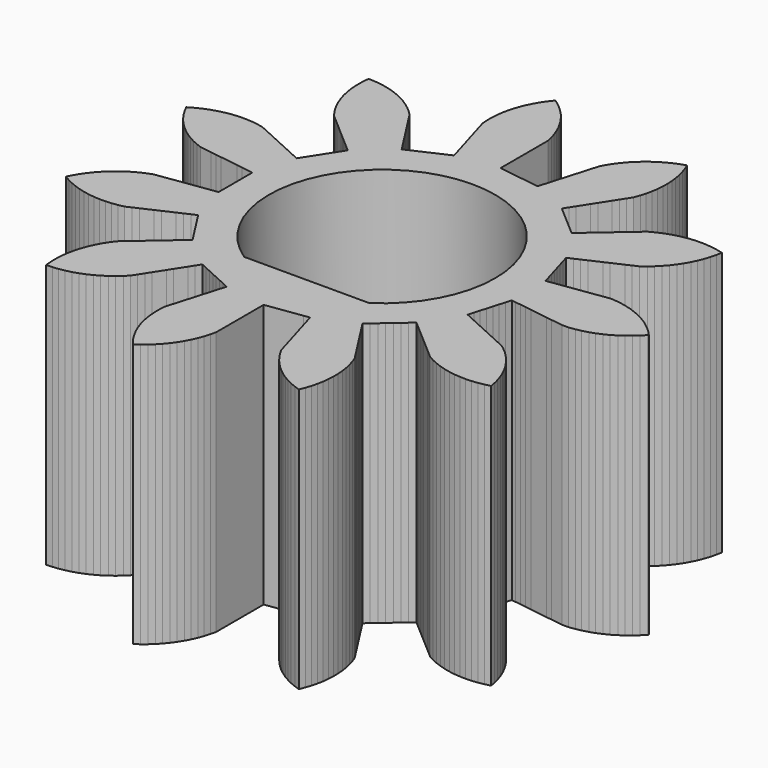
from build123d import *

# Parameters (mm, degrees)
F1_DEPTH = 7


with BuildPart() as f1:
    # F0 (on Top) → F1 (new body)
    with BuildSketch(Plane.XY):
        Polygon((2.731501, -0.713257), (2.776741, -0.559184), (2.880395, -0.574087), (3.035876, -0.596442), (3.191356, -0.618797), (3.346837, -0.641151), (3.502318, -0.663506), (3.657799, -0.685861), (3.81328, -0.708216), (3.96876, -0.73057), (4.124241, -0.752925), (4.279722, -0.77528), (4.455259, -0.773647), (4.613329, -0.751372), (4.760879, -0.722232), (4.914583, -0.679133), (5.056947, -0.630628), (5.203554, -0.567471), (5.338203, -0.500465), (5.475108, -0.418371), (5.59965, -0.334053), (5.724421, -0.234482), (5.836643, -0.134349), (5.947064, -0.019069), (5.96533, 0), (5.854909, 0.11528), (5.74506, 0.218011), (5.620289, 0.317582), (5.497754, 0.404792), (5.360849, 0.486885), (5.227805, 0.557024), (5.081198, 0.620181), (4.940008, 0.672004), (4.786304, 0.715102), (4.639476, 0.747688), (4.481406, 0.769962), (4.331549, 0.782732), (4.176068, 0.760377), (4.020587, 0.738022), (3.865107, 0.715667), (3.709626, 0.693313), (3.554145, 0.670958), (3.398664, 0.648603), (3.243183, 0.626248), (3.087703, 0.603894), (2.932222, 0.581539), (2.776741, 0.559184), (2.731768, 0.71235), (2.686794, 0.865515), (2.641821, 1.018681), (2.596847, 1.171846), (2.551874, 1.325012), (2.5069, 1.478178), (2.46166, 1.63225), (2.604545, 1.697503), (2.74743, 1.762757), (2.890314, 1.82801), (3.033199, 1.893263), (3.176084, 1.958516), (3.318968, 2.02377), (3.461853, 2.089023), (3.604738, 2.154276), (3.747622, 2.219529), (3.890507, 2.284783), (4.016826, 2.382383), (4.130606, 2.480741), (4.242823, 2.594274), (4.342511, 2.706891), (4.438633, 2.834338), (4.522459, 2.959212), (4.600777, 3.098311), (4.667252, 3.233224), (4.726376, 3.381503), (4.774318, 3.524058), (4.813197, 3.678883), (4.841754, 3.826547), (4.686537, 3.863828), (4.538586, 3.890863), (4.37979, 3.907171), (4.229558, 3.914289), (4.070003, 3.909334), (3.920159, 3.89641), (3.76268, 3.870279), (3.615886, 3.837542), (3.463281, 3.7907), (3.322145, 3.738731), (3.177125, 3.672011), (3.044154, 3.601734), (2.925441, 3.498869), (2.806728, 3.396003), (2.688015, 3.293138), (2.569302, 3.190273), (2.450589, 3.087408), (2.331876, 2.984542), (2.213164, 2.881677), (2.094451, 2.778812), (1.975738, 2.675946), (1.857025, 2.573081), (1.736383, 2.677618), (1.615742, 2.782154), (1.4951, 2.886691), (1.374458, 2.991228), (1.253817, 3.095764), (1.133175, 3.200301), (1.011819, 3.305456), (1.096743, 3.4376), (1.181666, 3.569744), (1.26659, 3.701888), (1.351514, 3.834032), (1.436437, 3.966175), (1.521361, 4.098319), (1.606285, 4.230463), (1.691208, 4.362607), (1.776132, 4.494751), (1.861055, 4.626894), (1.914555, 4.777294), (1.957096, 4.921553), (1.990119, 5.077732), (2.013097, 5.226366), (2.025056, 5.38555), (2.028063, 5.53592), (2.018746, 5.69528), (2.001729, 5.844714), (1.971301, 6.001419), (1.934562, 6.147263), (1.883564, 6.29853), (1.827755, 6.438192), (1.677022, 6.385639), (1.537942, 6.328393), (1.395537, 6.25626), (1.265305, 6.181027), (1.133758, 6.090597), (1.014689, 5.998712), (0.896337, 5.891591), (0.790545, 5.784687), (0.68749, 5.662777), (0.596855, 5.542754), (0.510928, 5.408222), (0.43706, 5.277211), (0.392806, 5.126495), (0.348551, 4.975778), (0.304297, 4.825061), (0.260042, 4.674344), (0.215788, 4.523627), (0.171533, 4.372911), (0.127279, 4.222194), (0.083024, 4.071477), (0.03877, 3.92076), (-0.005484, 3.770043), (-0.163491, 3.792761), (-0.321498, 3.815479), (-0.479505, 3.838197), (-0.637512, 3.860915), (-0.795519, 3.883633), (-0.953526, 3.906351), (-1.112469, 3.929204), (-1.112469, 4.086283), (-1.112469, 4.243363), (-1.112469, 4.400443), (-1.112469, 4.557522), (-1.112469, 4.714602), (-1.112469, 4.871681), (-1.112469, 5.028761), (-1.112469, 5.185841), (-1.112469, 5.34292), (-1.112469, 5.5), (-1.148775, 5.655448), (-1.190979, 5.799806), (-1.247635, 5.949045), (-1.308663, 6.086508), (-1.384663, 6.226887), (-1.46343, 6.355012), (-1.557424, 6.484037), (-1.65253, 6.600549), (-1.762849, 6.715927), (-1.872605, 6.818756), (-1.997288, 6.918438), (-2.119745, 7.005757), (-2.218137, 6.880054), (-2.304189, 6.756703), (-2.38499, 6.619032), (-2.453874, 6.485333), (-2.515648, 6.338138), (-2.566139, 6.196466), (-2.607788, 6.042364), (-2.63899, 5.895235), (-2.659776, 5.736963), (-2.671134, 5.586992), (-2.670686, 5.427361), (-2.661998, 5.277211), (-2.617744, 5.126495), (-2.573489, 4.975778), (-2.529235, 4.825061), (-2.48498, 4.674344), (-2.440726, 4.523627), (-2.396471, 4.372911), (-2.352217, 4.222194), (-2.307962, 4.071477), (-2.263708, 3.92076), (-2.219454, 3.770043), (-2.36466, 3.70373), (-2.509866, 3.637416), (-2.655072, 3.571103), (-2.800278, 3.50479), (-2.945485, 3.438476), (-3.090691, 3.372163), (-3.236757, 3.305456), (-3.321681, 3.4376), (-3.406604, 3.569744), (-3.491528, 3.701888), (-3.576452, 3.834032), (-3.661375, 3.966175), (-3.746299, 4.098319), (-3.831223, 4.230463), (-3.916146, 4.362607), (-4.00107, 4.494751), (-4.085993, 4.626894), (-4.200577, 4.738038), (-4.314127, 4.836662), (-4.442475, 4.931579), (-4.568132, 5.014226), (-4.707962, 5.091231), (-4.843495, 5.156433), (-4.992324, 5.214158), (-5.135323, 5.260756), (-5.290507, 5.298176), (-5.438434, 5.325342), (-5.597216, 5.341791), (-5.747441, 5.349043), (-5.762254, 5.1901), (-5.767958, 5.039808), (-5.7615, 4.880307), (-5.747166, 4.730591), (-5.719554, 4.573366), (-5.685436, 4.426886), (-5.63716, 4.274729), (-5.583865, 4.134088), (-5.515782, 3.989703), (-5.444257, 3.857399), (-5.357577, 3.723351), (-5.269092, 3.601734), (-5.150379, 3.498869), (-5.031666, 3.396003), (-4.912953, 3.293138), (-4.79424, 3.190273), (-4.675527, 3.087408), (-4.556814, 2.984542), (-4.438102, 2.881677), (-4.319389, 2.778812), (-4.200676, 2.675946), (-4.081963, 2.573081), (-4.168266, 2.43879), (-4.25457, 2.3045), (-4.340873, 2.170209), (-4.427177, 2.035918), (-4.51348, 1.901627), (-4.599784, 1.767336), (-4.686598, 1.63225), (-4.829483, 1.697503), (-4.972368, 1.762757), (-5.115252, 1.82801), (-5.258137, 1.893263), (-5.401022, 1.958516), (-5.543906, 2.02377), (-5.686791, 2.089023), (-5.829676, 2.154276), (-5.97256, 2.219529), (-6.115445, 2.284783), (-6.271928, 2.316334), (-6.420772, 2.337911), (-6.580061, 2.348371), (-6.668432, 2.35086), (-6.827929, 2.344295), (-6.977635, 2.329859), (-7.134842, 2.302142), (-7.281298, 2.267925), (-7.433423, 2.219546), (-7.574028, 2.166156), (-7.718367, 2.097976), (-7.850623, 2.026361), (-7.903567, 1.994046), (-7.830097, 1.852327), (-7.753641, 1.722809), (-7.661976, 1.592119), (-7.568975, 1.47392), (-7.460744, 1.356582), (-7.352849, 1.251801), (-7.229975, 1.149898), (-7.109104, 1.060397), (-6.973768, 0.975741), (-6.842068, 0.903109), (-6.696677, 0.837203), (-6.556487, 0.782732), (-6.401006, 0.760377), (-6.245525, 0.738022), (-6.090045, 0.715667), (-5.934564, 0.693313), (-5.779083, 0.670958), (-5.623602, 0.648603), (-5.468121, 0.626248), (-5.312641, 0.603894), (-5.15716, 0.581539), (-5.001679, 0.559184), (-5.001679, 0.399552), (-5.001679, 0.23992), (-5.001679, 0.080289), (-5.001679, -0.079343), (-5.001679, -0.238975), (-5.001679, -0.398607), (-5.001679, -0.559184), (-5.15716, -0.581539), (-5.312641, -0.603894), (-5.468121, -0.626248), (-5.623602, -0.648603), (-5.779083, -0.670958), (-5.934564, -0.693313), (-6.090045, -0.715667), (-6.245525, -0.738022), (-6.401006, -0.760377), (-6.556487, -0.782732), (-6.705186, -0.84079), (-6.842068, -0.903109), (-6.981725, -0.980428), (-7.109104, -1.060397), (-7.237238, -1.155602), (-7.352849, -1.251801), (-7.467184, -1.3632), (-7.568975, -1.47392), (-7.667479, -1.599536), (-7.753641, -1.722809), (-7.834564, -1.860409), (-7.903567, -1.994046), (-7.765141, -2.073547), (-7.6308, -2.141169), (-7.48303, -2.201555), (-7.340889, -2.25071), (-7.186401, -2.290907), (-7.038985, -2.320722), (-6.880524, -2.340017), (-6.730453, -2.349963), (-6.570833, -2.348012), (-6.420772, -2.337911), (-6.26283, -2.31475), (-6.115445, -2.284783), (-5.97256, -2.219529), (-5.829676, -2.154276), (-5.686791, -2.089023), (-5.543906, -2.02377), (-5.401022, -1.958516), (-5.258137, -1.893263), (-5.115252, -1.82801), (-4.972368, -1.762757), (-4.829483, -1.697503), (-4.686598, -1.63225), (-4.600295, -1.766541), (-4.513991, -1.900832), (-4.427688, -2.035123), (-4.341385, -2.169413), (-4.255081, -2.303704), (-4.168778, -2.437995), (-4.081963, -2.573081), (-4.200676, -2.675946), (-4.319389, -2.778812), (-4.438102, -2.881677), (-4.556814, -2.984542), (-4.675527, -3.087408), (-4.79424, -3.190273), (-4.912953, -3.293138), (-5.031666, -3.396003), (-5.150379, -3.498869), (-5.269092, -3.601734), (-5.362797, -3.730969), (-5.444257, -3.857399), (-5.519943, -3.997948), (-5.583865, -4.134088), (-5.640187, -4.283454), (-5.685436, -4.426886), (-5.721394, -4.582415), (-5.747166, -4.730591), (-5.76212, -4.889521), (-5.767958, -5.039808), (-5.761642, -5.199315), (-5.747441, -5.349043), (-5.588008, -5.341085), (-5.438434, -5.325342), (-5.281475, -5.296251), (-5.135323, -5.260756), (-4.983628, -5.211049), (-4.843495, -5.156433), (-4.699757, -5.086994), (-4.568132, -5.014226), (-4.434906, -4.926288), (-4.314127, -4.836662), (-4.193779, -4.731787), (-4.085993, -4.626894), (-4.00107, -4.494751), (-3.916146, -4.362607), (-3.831223, -4.230463), (-3.746299, -4.098319), (-3.661375, -3.966175), (-3.576452, -3.834032), (-3.491528, -3.701888), (-3.406604, -3.569744), (-3.321681, -3.4376), (-3.236757, -3.305456), (-3.091551, -3.37177), (-2.946345, -3.438083), (-2.801138, -3.504397), (-2.655932, -3.57071), (-2.510726, -3.637024), (-2.36552, -3.703337), (-2.219454, -3.770043), (-2.263708, -3.92076), (-2.307962, -4.071477), (-2.352217, -4.222194), (-2.396471, -4.372911), (-2.440726, -4.523627), (-2.48498, -4.674344), (-2.529235, -4.825061), (-2.573489, -4.975778), (-2.617744, -5.126495), (-2.661998, -5.277211), (-2.670958, -5.436591), (-2.671134, -5.586992), (-2.658818, -5.746148), (-2.63899, -5.895235), (-2.605618, -6.05134), (-2.566139, -6.196466), (-2.512302, -6.346746), (-2.453874, -6.485333), (-2.38053, -6.627118), (-2.304189, -6.756703), (-2.212641, -6.887475), (-2.119745, -7.005757), (-1.989924, -6.912866), (-1.872605, -6.818756), (-1.756291, -6.709425), (-1.65253, -6.600549), (-1.551789, -6.47672), (-1.46343, -6.355012), (-1.380051, -6.218886), (-1.308663, -6.086508), (-1.244128, -5.940502), (-1.190979, -5.799806), (-1.146435, -5.646515), (-1.112469, -5.5), (-1.112469, -5.34292), (-1.112469, -5.185841), (-1.112469, -5.028761), (-1.112469, -4.871681), (-1.112469, -4.714602), (-1.112469, -4.557522), (-1.112469, -4.400443), (-1.112469, -4.243363), (-1.112469, -4.086283), (-1.112469, -3.929204), (-0.954462, -3.906486), (-0.796455, -3.883768), (-0.638448, -3.86105), (-0.480441, -3.838332), (-0.322434, -3.815614), (-0.164427, -3.792896), (-0.005484, -3.770043), (0.03877, -3.92076), (0.083024, -4.071477), (0.127279, -4.222194), (0.171533, -4.372911), (0.215788, -4.523627), (0.260042, -4.674344), (0.304297, -4.825061), (0.348551, -4.975778), (0.392806, -5.126495), (0.43706, -5.277211), (0.51569, -5.416135), (0.596855, -5.542754), (0.693262, -5.669986), (0.790545, -5.784687), (0.903016, -5.897968), (1.014689, -5.998712), (1.141226, -6.096029), (1.265305, -6.181027), (1.403661, -6.260652), (1.537942, -6.328393), (1.685658, -6.38891), (1.827755, -6.438192), (1.886747, -6.289861), (1.934562, -6.147263), (1.973303, -5.992404), (2.001729, -5.844714), (2.019531, -5.686078), (2.028063, -5.53592), (2.02461, -5.376325), (2.013097, -5.226366), (1.98845, -5.068649), (1.957096, -4.921553), (1.911693, -4.768514), (1.861055, -4.626894), (1.776132, -4.494751), (1.691208, -4.362607), (1.606285, -4.230463), (1.521361, -4.098319), (1.436437, -3.966175), (1.351514, -3.834032), (1.26659, -3.701888), (1.181666, -3.569744), (1.096743, -3.4376), (1.011819, -3.305456), (1.132461, -3.20092), (1.253102, -3.096383), (1.373744, -2.991847), (1.494386, -2.88731), (1.615027, -2.782773), (1.735669, -2.678237), (1.857025, -2.573081), (1.975738, -2.675946), (2.094451, -2.778812), (2.213164, -2.881677), (2.331876, -2.984542), (2.450589, -3.087408), (2.569302, -3.190273), (2.688015, -3.293138), (2.806728, -3.396003), (2.925441, -3.498869), (3.044154, -3.601734), (3.185409, -3.676093), (3.322145, -3.738731), (3.472034, -3.793645), (3.615886, -3.837542), (3.771747, -3.872033), (3.920159, -3.89641), (4.079222, -3.909867), (4.229558, -3.914289), (4.388998, -3.906473), (4.538586, -3.890863), (4.695571, -3.861912), (4.841754, -3.826547), (4.811187, -3.669869), (4.774318, -3.524058), (4.723185, -3.372837), (4.667252, -3.233224), (4.596463, -3.090146), (4.522459, -2.959212), (4.433271, -2.82682), (4.342511, -2.706891), (4.236509, -2.587535), (4.130606, -2.480741), (4.009671, -2.376544), (3.890507, -2.284783), (3.747622, -2.219529), (3.604738, -2.154276), (3.461853, -2.089023), (3.318968, -2.02377), (3.176084, -1.958516), (3.033199, -1.893263), (2.890314, -1.82801), (2.74743, -1.762757), (2.604545, -1.697503), (2.46166, -1.63225), (2.506634, -1.479085), (2.551607, -1.325919), (2.596581, -1.172753), (2.641554, -1.019588), (2.686528, -0.866422), align=None)
        with BuildLine():
            ThreePointArc((0.545843, -2.5), (-1.112469, -3), (-2.770781, -2.5))
            ThreePointArc((-2.770781, -2.5), (-2.531106, 2.643382), (1.887531, 0))
            ThreePointArc((1.887531, 0), (1.530913, -1.418637), (0.545843, -2.5))
        make_face(mode=Mode.SUBTRACT)
        with BuildLine():
            Line((0.545843, -2.5), (-2.770781, -2.5))
            ThreePointArc((-2.770781, -2.5), (-1.112469, -3), (0.545843, -2.5))
        make_face()
    extrude(amount=F1_DEPTH)


solid = f1.part
